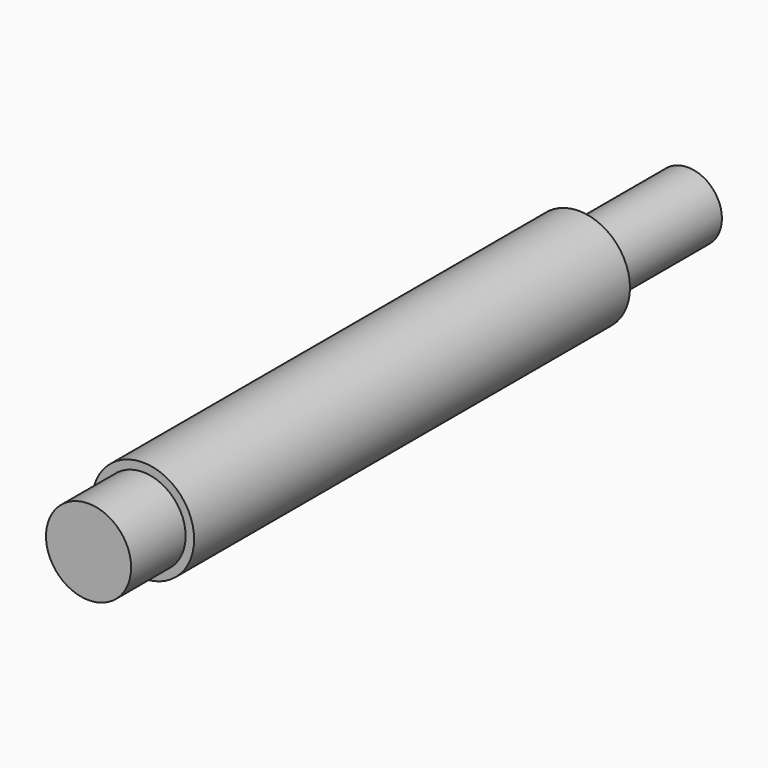
from build123d import *

# Parameters (mm, degrees)
F0_R     = 9.525
F1_DEPTH = 101.6
F2_R     = 6.35
F3_DEPTH = 25.4
F4_R     = 7.9375
F5_DEPTH = 12.7


with BuildPart() as f1:
    # F0 (on Front) → F1 (new body)
    with BuildSketch(Plane.XZ):
        Circle(F0_R)
    extrude(amount=F1_DEPTH)

    # F2 (on Front) → F3 (join)
    with BuildSketch(Plane.XZ):
        Circle(F2_R)
    extrude(amount=-F3_DEPTH)

    # F4 (on face) → F5 (join)
    with BuildSketch(Plane.XZ.offset(101.6)):
        Circle(F4_R)
    extrude(amount=F5_DEPTH)


solid = f1.part
